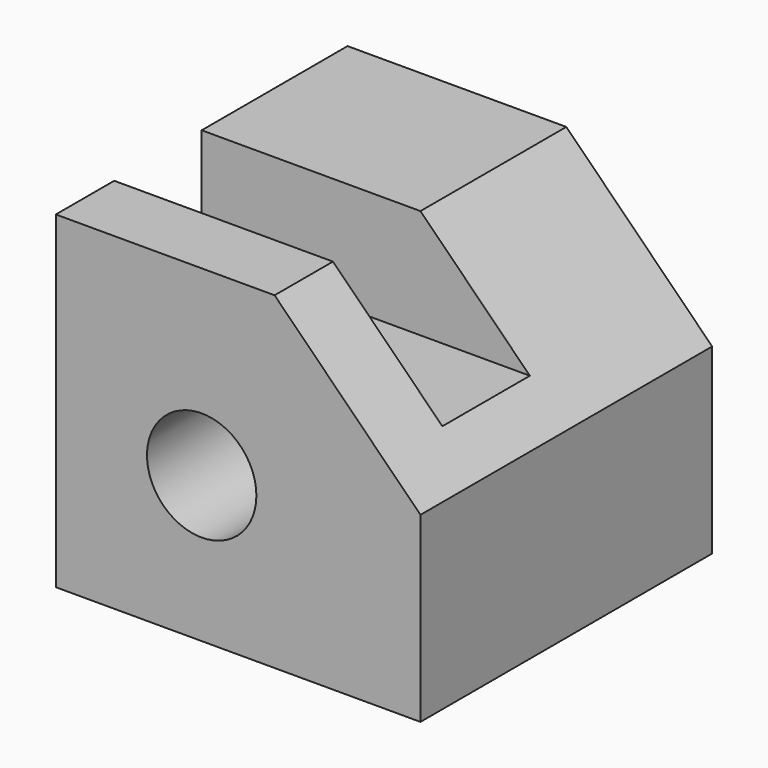
from build123d import *

# Parameters (mm, degrees)
F1_DEPTH = 50
F2_R     = 7.5
F3_DEPTH = 50.001
F5_W     = 50
F5_H     = 15
F6_DEPTH = 15


with BuildPart() as f1:
    # F0 (on Front) → F1 (new body)
    with BuildSketch(Plane.XZ):
        Polygon((0, 45), (0, 0), (50, 0), (50, 25), (30, 45), align=None)
    extrude(amount=F1_DEPTH)

    # F2 (on face) → F3 (cut, through all)
    with BuildSketch(Plane.XZ.offset(50)):
        with Locations((20, 20)):
            Circle(F2_R)
    extrude(amount=-F3_DEPTH, mode=Mode.SUBTRACT)

    # F5 (on face) → F6 (cut, through all)
    with BuildSketch(Plane.XY.offset(45)):
        with Locations((25, -32.5)):
            Rectangle(F5_W, F5_H)
    extrude(amount=-F6_DEPTH, mode=Mode.SUBTRACT)


solid = f1.part
